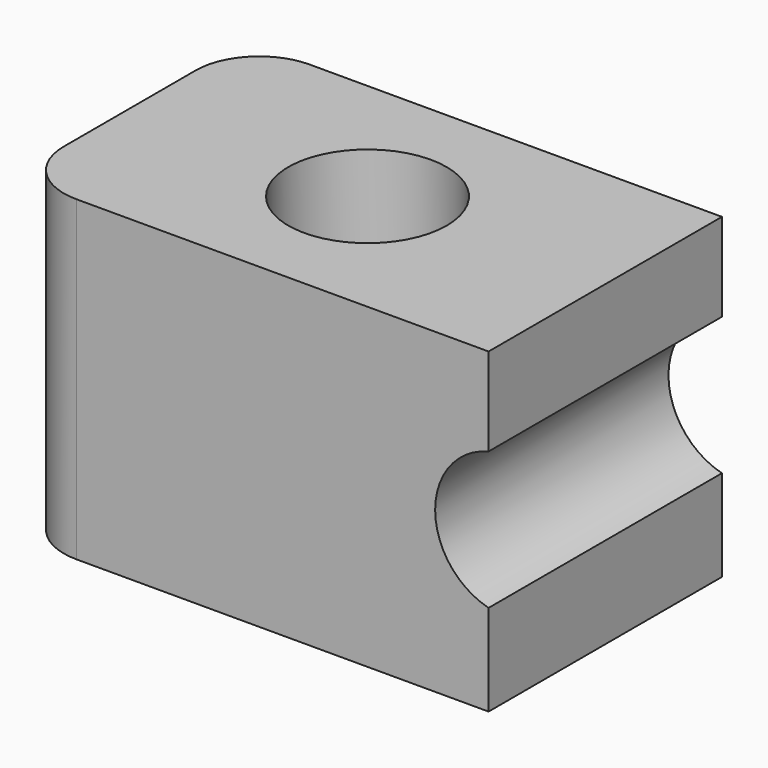
from build123d import *

# Parameters (mm, degrees)
F0_W     = 38.1
F0_H     = 23.368
F1_DEPTH = 25.4
F2_R     = 6.35
F3_DEPTH = 12.7
F4_R     = 3.175
F5_DEPTH = 25.4
F6_R     = 5.08
F8_DEPTH = 25.4


with BuildPart() as f1:
    # F0 (on Top) → F1 (new body)
    with BuildSketch(Plane.XY):
        with Locations((19.05, 11.684)):
            Rectangle(F0_W, F0_H)
    extrude(amount=F1_DEPTH)

    # F2 (on face) → F3 (cut)
    with BuildSketch(Plane.XY.offset(25.4)):
        with Locations((19.05, 11.684)):
            Circle(F2_R)
    extrude(amount=-F3_DEPTH, mode=Mode.SUBTRACT)

    # F4 (on face) → F5 (cut)
    with BuildSketch(Plane.XY.offset(12.7)):
        with Locations((19.05, 11.684)):
            Circle(F4_R)
    extrude(amount=-F5_DEPTH, mode=Mode.SUBTRACT)

    # F6
    f6_edges = [f1.edges().sort_by_distance(p)[0] for p in [
        (0, 23.368, 12.7),
        (0, 0, 12.7),
    ]]
    fillet(f6_edges, radius=F6_R)

    # F7 (on face) → F8 (cut)
    with BuildSketch(Plane(origin=(0, 23.368, 0), x_dir=(-1, 0, 0), z_dir=(0, 1, 0))):
        with BuildLine():
            Line((-38.1, 18.349398), (-38.1, 7.316839))
            ThreePointArc((-38.1, 7.316839), (-33.818122, 12.833118), (-38.1, 18.349398))
        make_face()
    extrude(amount=-F8_DEPTH, mode=Mode.SUBTRACT)


solid = f1.part
